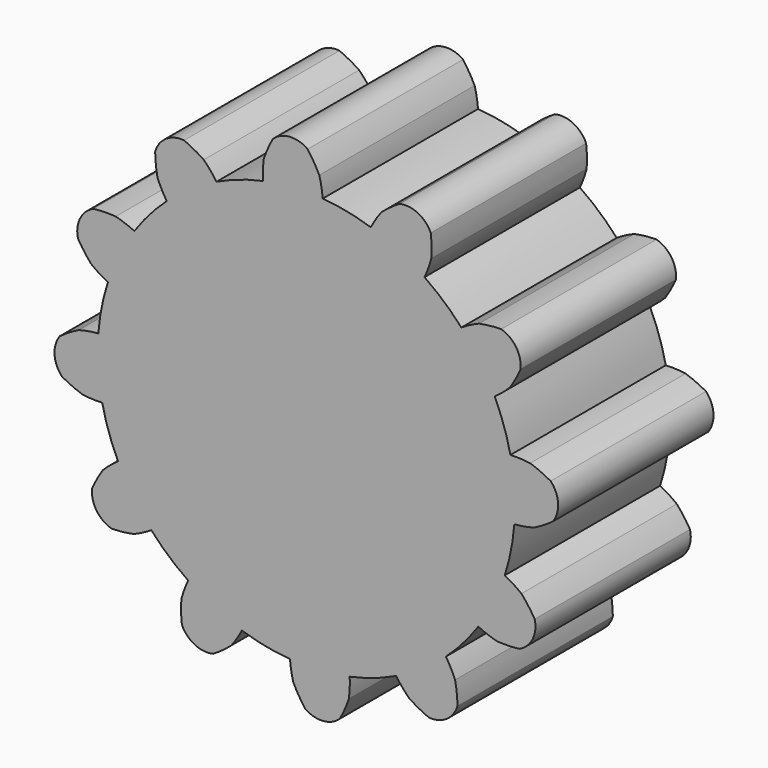
from build123d import *

# Parameters (mm, degrees)
F1_DEPTH = 25
F2_DEPTH = 25
F3_COUNT = 12


with BuildPart() as f1:
    # F0 (on Front) → F1 (new body)
    with BuildSketch(Plane.XZ):
        with BuildLine():
            ThreePointArc((-5.5845651505, 26.2735435815), (-16.9038789635, -20.874514036), (26.8605, 0))
            ThreePointArc((26.8605, 0), (19.7242535187, 18.2329450002), (2.1074028217, 26.7777017983))
            ThreePointArc((2.1074028217, 26.7777017983), (-1.7567607527, 26.8029896077), (-5.5845651505, 26.2735435815))
        make_face()
        with BuildLine():
            ThreePointArc((4.0227100868, 11.3209239617), (9.8151901419, 6.9287486797), (12.0143878658, 0))
            ThreePointArc((12.0143878658, 0), (9.8151901419, -6.9287486797), (4.0227100868, -11.3209239617))
            ThreePointArc((4.0227100868, -11.3209239617), (0, -12.0143878658), (-4.0227100868, -11.3209239617))
            ThreePointArc((-4.0227100868, -11.3209239617), (-12.0143878658, 0), (-4.0227100868, 11.3209239617))
            ThreePointArc((-4.0227100868, 11.3209239617), (0, 12.0143878658), (4.0227100868, 11.3209239617))
        make_face(mode=Mode.SUBTRACT)
        with BuildLine():
            Line((4.0227100868, -11.3209239617), (4.0227100868, 11.3209239617))
            ThreePointArc((4.0227100868, 11.3209239617), (0, 12.0143878658), (-4.0227100868, 11.3209239617))
            Line((-4.0227100868, 11.3209239617), (-4.0227100868, -11.3209239617))
            ThreePointArc((-4.0227100868, -11.3209239617), (0, -12.0143878658), (4.0227100868, -11.3209239617))
        make_face()
    extrude(amount=F1_DEPTH)

    # F0 (on Front) → F2 (join)
    with BuildSketch(Plane.XZ):
        with BuildLine():
            ThreePointArc((-5.5845651505, 26.2735435815), (-1.7567607527, 26.8029896077), (2.1074028217, 26.7777017983))
            ThreePointArc((2.1074028217, 26.7777017983), (1.945127207, 28.0438038567), (1.6670221767, 29.2895989399))
            ThreePointArc((1.6670221767, 29.2895989399), (0.973127852, 30.5538872836), (0.1667310445, 31.7495622137))
            ThreePointArc((0.1667310445, 31.7495622137), (-2.1242907577, 32.4104138918), (-4.3094540977, 31.4561775392))
            ThreePointArc((-4.3094540977, 31.4561775392), (-4.952885173, 30.1654758692), (-5.4758203921, 28.8214323036))
            ThreePointArc((-5.4758203921, 28.8214323036), (-5.5889373069, 27.5499951794), (-5.5845651505, 26.2735435815))
        make_face()
    extrude(amount=F2_DEPTH)

    # F3: F1 ×12 about axis
    f3_axis = Axis((0, 0, 0), (0, 1, 0))


with BuildPart() as f1_1:
    add(f1.part)
    for i in range(1, F3_COUNT):
        add(f1.part.rotate(f3_axis, i * 360 / F3_COUNT))


solid = f1_1.part
